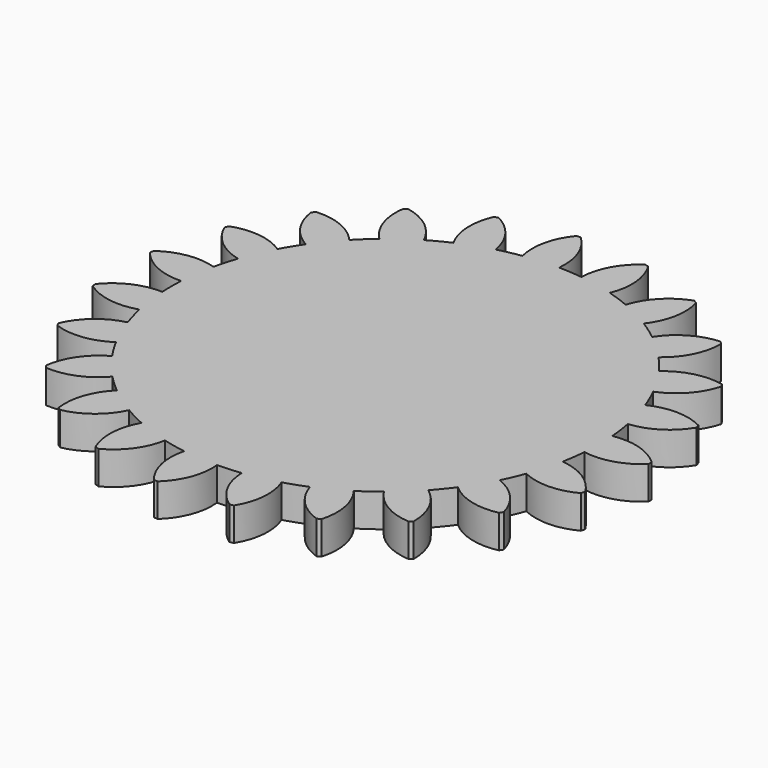
from build123d import *

# Parameters (mm, degrees)
F1_DEPTH = 6.35


with BuildPart() as f1:
    # F0 (on Top) → F1 (new body)
    with BuildSketch(Plane.XY):
        with BuildLine():
            ThreePointArc((40.884538, -3.343206), (40.98687, -1.672995), (41.021, 0))
            ThreePointArc((41.021, 0), (40.986959, 1.670818), (40.884893, 3.338863))
            ThreePointArc((40.884893, 3.338863), (40.639225, 5.583533), (40.270414, 7.811285))
            ThreePointArc((40.270414, 7.811285), (39.500418, 11.065235), (38.467955, 14.24566))
            ThreePointArc((38.467955, 14.24566), (37.625793, 16.340812), (36.669618, 18.386449))
            ThreePointArc((36.669618, 18.386449), (35.050271, 21.311991), (33.198026, 24.095923))
            ThreePointArc((33.198026, 24.095923), (31.821828, 25.886168), (30.349205, 27.597975))
            ThreePointArc((30.349205, 27.597975), (28.000605, 29.978135), (25.465951, 32.159101))
            ThreePointArc((25.465951, 32.159101), (23.657784, 33.511665), (21.77793, 34.762684))
            ThreePointArc((21.77793, 34.762684), (18.874263, 36.420937), (15.845183, 37.837186))
            ThreePointArc((15.845183, 37.837186), (13.73915, 38.651756), (11.591485, 39.349205))
            ThreePointArc((11.591485, 39.349205), (8.348103, 40.162565), (5.04925, 40.709059))
            ThreePointArc((5.04925, 40.709059), (2.801546, 40.925222), (0.545353, 41.017375))
            ThreePointArc((0.545353, 41.017375), (-2.797198, 40.925519), (-6.121163, 40.561728))
            ThreePointArc((-6.121163, 40.561728), (-8.343836, 40.163452), (-10.541226, 39.643474))
            ThreePointArc((-10.541226, 39.643474), (-13.735043, 38.653215), (-16.837597, 37.40612))
            ThreePointArc((-16.837597, 37.40612), (-18.870393, 36.422942), (-20.84601, 35.329397))
            ThreePointArc((-20.84601, 35.329397), (-23.654223, 33.514179), (-26.305263, 31.47627))
            ThreePointArc((-26.305263, 31.47627), (-27.99742, 29.981109), (-29.60474, 28.395101))
            ThreePointArc((-29.60474, 28.395101), (-31.819078, 25.889549), (-33.821989, 23.211969))
            ThreePointArc((-33.821989, 23.211969), (-35.048006, 21.315715), (-36.167823, 19.354871))
            ThreePointArc((-36.167823, 19.354871), (-37.624057, 16.34481), (-38.830292, 13.226143))
            ThreePointArc((-38.830292, 13.226143), (-39.499242, 11.069432), (-40.048504, 8.879178))
            ThreePointArc((-40.048504, 8.879178), (-40.638631, 5.587851), (-40.95873, 2.259395))
            ThreePointArc((-40.95873, 2.259395), (-41.021, 0.002179), (-40.95897, -2.255043))
            ThreePointArc((-40.95897, -2.255043), (-40.639225, -5.583533), (-40.049447, -8.874923))
            ThreePointArc((-40.049447, -8.874923), (-39.500418, -11.065235), (-38.831697, -13.222018))
            ThreePointArc((-38.831697, -13.222018), (-37.625793, -16.340812), (-36.169879, -19.351028))
            ThreePointArc((-36.169879, -19.351028), (-35.050271, -21.311991), (-33.824454, -23.208376))
            ThreePointArc((-33.824454, -23.208376), (-31.821828, -25.886168), (-29.607757, -28.391956))
            ThreePointArc((-29.607757, -28.391956), (-28.000605, -29.978135), (-26.308607, -31.473475))
            ThreePointArc((-26.308607, -31.473475), (-23.657784, -33.511665), (-20.849763, -35.327183))
            ThreePointArc((-20.849763, -35.327183), (-18.874263, -36.420937), (-16.841571, -37.404331))
            ThreePointArc((-16.841571, -37.404331), (-13.73915, -38.651756), (-10.545437, -39.642354))
            ThreePointArc((-10.545437, -39.642354), (-8.348103, -40.162565), (-6.125472, -40.561078))
            ThreePointArc((-6.125472, -40.561078), (-2.801546, -40.925222), (0.540995, -41.017432))
            ThreePointArc((0.540995, -41.017432), (2.797198, -40.925519), (5.044925, -40.709596))
            ThreePointArc((5.044925, -40.709596), (8.343836, -40.163452), (11.587304, -39.350436))
            ThreePointArc((11.587304, -39.350436), (13.735043, -38.653215), (15.841163, -37.838869))
            ThreePointArc((15.841163, -37.838869), (18.870393, -36.422942), (21.774236, -34.764998))
            ThreePointArc((21.774236, -34.764998), (23.654223, -33.514179), (25.462534, -32.161806))
            ThreePointArc((25.462534, -32.161806), (27.99742, -29.981109), (30.346273, -27.601199))
            ThreePointArc((30.346273, -27.601199), (31.819078, -25.889549), (33.195466, -24.09945))
            ThreePointArc((33.195466, -24.09945), (35.048006, -21.315715), (36.667665, -18.390345))
            ThreePointArc((36.667665, -18.390345), (37.624057, -16.34481), (38.466442, -14.249747))
            ThreePointArc((38.466442, -14.249747), (39.499242, -11.069432), (40.269584, -7.815564))
            ThreePointArc((40.269584, -7.815564), (40.638631, -5.587851), (40.884538, -3.343206))
        make_face()
        with BuildLine():
            ThreePointArc((40.884893, 3.338863), (40.986959, 1.670818), (41.021, 0))
            ThreePointArc((41.021, 0), (40.98687, -1.672995), (40.884538, -3.343206))
            ThreePointArc((40.884538, -3.343206), (46.192352, -3.045646), (50.798492, -0.39142))
            Line((50.798492, -0.39142), (50.798533, 0.386023))
            ThreePointArc((50.798533, 0.386023), (46.192676, 3.040738), (40.884893, 3.338863))
        make_face()
        with BuildLine():
            ThreePointArc((38.467955, 14.24566), (39.500418, 11.065235), (40.270414, 7.811285))
            ThreePointArc((40.270414, 7.811285), (45.30112, 9.529843), (49.02035, 13.328364))
            Line((49.02035, 13.328364), (48.810638, 14.076988))
            ThreePointArc((48.810638, 14.076988), (43.659344, 15.390614), (38.467955, 14.24566))
        make_face()
        with BuildLine():
            ThreePointArc((49.018934, -13.333572), (45.300107, -9.534655), (40.269584, -7.815564))
            ThreePointArc((40.269584, -7.815564), (39.499242, -11.069432), (38.466442, -14.249747))
            ThreePointArc((38.466442, -14.249747), (43.657709, -15.395252), (48.809142, -14.082174))
            Line((48.809142, -14.082174), (49.018934, -13.333572))
        make_face()
        with BuildLine():
            ThreePointArc((33.198026, 24.095923), (35.050271, 21.311991), (36.669618, 18.386449))
            ThreePointArc((36.669618, 18.386449), (41.050111, 21.398546), (43.606593, 26.059645))
            Line((43.606593, 26.059645), (43.202681, 26.723928))
            ThreePointArc((43.202681, 26.723928), (37.888, 26.599039), (33.198026, 24.095923))
        make_face()
        with BuildLine():
            ThreePointArc((43.603824, -26.064277), (41.047837, -21.402907), (36.667665, -18.390345))
            ThreePointArc((36.667665, -18.390345), (35.048006, -21.315715), (33.195466, -24.09945))
            ThreePointArc((33.195466, -24.09945), (37.885174, -26.603064), (43.199842, -26.728518))
            Line((43.199842, -26.728518), (43.603824, -26.064277))
        make_face()
        with BuildLine():
            ThreePointArc((25.465951, 32.159101), (28.000605, 29.978135), (30.349205, 27.597975))
            ThreePointArc((30.349205, 27.597975), (33.754603, 31.680217), (34.958734, 36.8582))
            Line((34.958734, 36.8582), (34.390579, 37.388876))
            ThreePointArc((34.390579, 37.388876), (29.306675, 35.834734), (25.465951, 32.159101))
        make_face()
        with BuildLine():
            ThreePointArc((34.954818, -36.861914), (33.751237, -31.683803), (30.346273, -27.601199))
            ThreePointArc((30.346273, -27.601199), (27.99742, -29.981109), (25.462534, -32.161806))
            ThreePointArc((25.462534, -32.161806), (29.302868, -35.837847), (34.386607, -37.39253))
            Line((34.386607, -37.39253), (34.954818, -36.861914))
        make_face()
        with BuildLine():
            ThreePointArc((15.845183, 37.837186), (18.874263, 36.420937), (21.77793, 34.762684))
            ThreePointArc((21.77793, 34.762684), (23.95567, 39.612312), (23.718146, 44.923152))
            Line((23.718146, 44.923152), (23.027885, 45.280863))
            ThreePointArc((23.027885, 45.280863), (18.551808, 42.412731), (15.845183, 37.837186))
        make_face()
        with BuildLine():
            ThreePointArc((23.713373, -44.925671), (23.951462, -39.614856), (21.774236, -34.764998))
            ThreePointArc((21.774236, -34.764998), (18.870393, -36.422942), (15.841163, -37.838869))
            ThreePointArc((15.841163, -37.838869), (18.547303, -42.414702), (23.023074, -45.283309))
            Line((23.023074, -45.283309), (23.713373, -44.925671))
        make_face()
        with BuildLine():
            ThreePointArc((5.04925, 40.709059), (8.348103, 40.162565), (11.591485, 39.349205))
            ThreePointArc((11.591485, 39.349205), (12.380055, 44.606542), (10.718491, 49.656359))
            Line((10.718491, 49.656359), (9.957318, 49.814574))
            ThreePointArc((9.957318, 49.814574), (6.421039, 45.84517), (5.04925, 40.709059))
        make_face()
        with BuildLine():
            ThreePointArc((10.713216, -49.657497), (12.375316, -44.607857), (11.587304, -39.350436))
            ThreePointArc((11.587304, -39.350436), (8.343836, -40.163452), (5.044925, -40.709596))
            ThreePointArc((5.044925, -40.709596), (6.416169, -45.845852), (9.952026, -49.815632))
            Line((9.952026, -49.815632), (10.713216, -49.657497))
        make_face()
        with BuildLine():
            ThreePointArc((-6.121163, 40.561728), (-2.797198, 40.925519), (0.545353, 41.017375))
            ThreePointArc((0.545353, 41.017375), (-0.113732, 46.292509), (-3.076104, 50.70678))
            Line((-3.076104, 50.70678), (-3.851738, 50.653767))
            ThreePointArc((-3.851738, 50.653767), (-6.185949, 45.877482), (-6.121163, 40.561728))
        make_face()
        with BuildLine():
            ThreePointArc((-3.081491, -50.706453), (-0.11865, -46.292497), (0.540995, -41.017432))
            ThreePointArc((0.540995, -41.017432), (-2.801546, -40.925222), (-6.125472, -40.561078))
            ThreePointArc((-6.125472, -40.561078), (-6.190823, -45.876825), (-3.857119, -50.653358))
            Line((-3.857119, -50.653358), (-3.081491, -50.706453))
        make_face()
        with BuildLine():
            ThreePointArc((-16.837597, 37.40612), (-13.735043, 38.653215), (-10.541226, 39.643474))
            ThreePointArc((-10.541226, 39.643474), (-12.599084, 44.545173), (-16.64256, 47.996512))
            Line((-16.64256, 47.996512), (-17.375128, 47.736202))
            ThreePointArc((-17.375128, 47.736202), (-18.334154, 42.507272), (-16.837597, 37.40612))
        make_face()
        with BuildLine():
            ThreePointArc((-16.647659, -47.994744), (-12.603816, -44.543834), (-10.545437, -39.642354))
            ThreePointArc((-10.545437, -39.642354), (-13.73915, -38.651756), (-16.841571, -37.404331))
            ThreePointArc((-16.841571, -37.404331), (-18.33867, -42.505324), (-17.380199, -47.734355))
            Line((-17.380199, -47.734355), (-16.647659, -47.994744))
        make_face()
        with BuildLine():
            ThreePointArc((-26.305263, 31.47627), (-23.654223, 33.514179), (-20.84601, 35.329397))
            ThreePointArc((-20.84601, 35.329397), (-24.15002, 39.494125), (-28.974713, 41.726563))
            Line((-28.974713, 41.726563), (-29.609884, 41.27826))
            ThreePointArc((-29.609884, 41.27826), (-29.122599, 35.984491), (-26.305263, 31.47627))
        make_face()
        with BuildLine():
            ThreePointArc((-28.979145, -41.723484), (-24.154215, -39.491559), (-20.849763, -35.327183))
            ThreePointArc((-20.849763, -35.327183), (-23.657784, -33.511665), (-26.308607, -31.473475))
            ThreePointArc((-26.308607, -31.473475), (-29.126421, -35.981397), (-29.614269, -41.275115))
            Line((-29.614269, -41.275115), (-28.979145, -41.723484))
        make_face()
        with BuildLine():
            ThreePointArc((-33.821989, 23.211969), (-31.819078, 25.889549), (-29.60474, 28.395101))
            ThreePointArc((-29.60474, 28.395101), (-33.909859, 31.513978), (-39.157944, 32.361945))
            Line((-39.157944, 32.361945), (-39.64861, 31.7589))
            ThreePointArc((-39.64861, 31.7589), (-37.751153, 26.792906), (-33.821989, 23.211969))
        make_face()
        with BuildLine():
            ThreePointArc((-39.161381, -32.357784), (-33.913207, -31.510376), (-29.607757, -28.391956))
            ThreePointArc((-29.607757, -28.391956), (-31.821828, -25.886168), (-33.824454, -23.208376))
            ThreePointArc((-33.824454, -23.208376), (-37.753999, -26.788895), (-39.651984, -31.754687))
            Line((-39.651984, -31.754687), (-39.161381, -32.357784))
        make_face()
        with BuildLine():
            ThreePointArc((-38.830292, 13.226143), (-37.624057, 16.34481), (-36.167823, 19.354871))
            ThreePointArc((-36.167823, 19.354871), (-41.154759, 21.196584), (-46.437009, 20.597189))
            Line((-46.437009, 20.597189), (-46.746781, 19.884126))
            ThreePointArc((-46.746781, 19.884126), (-43.579877, 15.614213), (-38.830292, 13.226143))
        make_face()
        with BuildLine():
            ThreePointArc((-46.439197, -20.592256), (-41.157011, -21.192212), (-36.169879, -19.351028))
            ThreePointArc((-36.169879, -19.351028), (-37.625793, -16.340812), (-38.831697, -13.222018))
            ThreePointArc((-38.831697, -13.222018), (-43.581536, -15.609583), (-46.748893, -19.87916))
            Line((-46.748893, -19.87916), (-46.439197, -20.592256))
        make_face()
        with BuildLine():
            ThreePointArc((-40.95873, 2.259395), (-40.638631, 5.587851), (-40.048504, 8.879178))
            ThreePointArc((-40.048504, 8.879178), (-45.347399, 9.307136), (-50.272054, 7.304834))
            Line((-50.272054, 7.304834), (-50.377956, 6.534638))
            ThreePointArc((-50.377956, 6.534638), (-46.176482, 3.277485), (-40.95873, 2.259395))
        make_face()
        with BuildLine():
            ThreePointArc((-50.27283, -7.299494), (-45.348387, -9.302318), (-40.049447, -8.874923))
            ThreePointArc((-40.049447, -8.874923), (-40.639225, -5.583533), (-40.95897, -2.255043))
            ThreePointArc((-40.95897, -2.255043), (-46.17683, -3.27258), (-50.37865, -6.529286))
            Line((-50.37865, -6.529286), (-50.27283, -7.299494))
        make_face()
    extrude(amount=F1_DEPTH)


solid = f1.part
